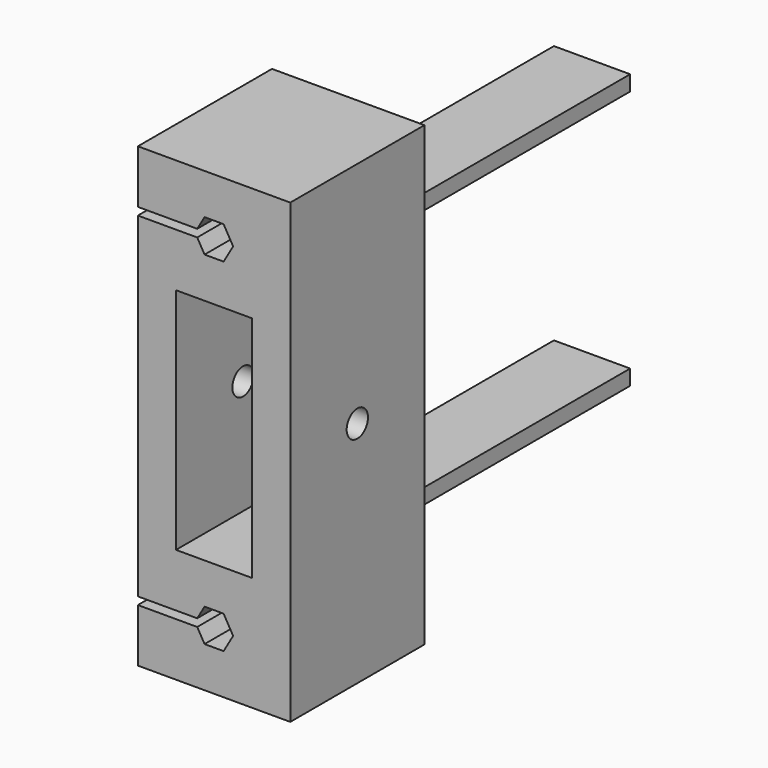
from build123d import *

# Parameters (mm, degrees)
SKETCH055_W     = 20
SKETCH055_H     = 60
SKETCH055_W_2   = 10
SKETCH055_H_2   = 30
PAD031_DEPTH    = 22
SKETCH056_R     = 1.75
POCKET028_DEPTH = 20.001
POCKET029_DEPTH = 2
SKETCH058_W     = 1
SKETCH058_H     = 22
POCKET030_DEPTH = 11
SKETCH059_W     = 10
SKETCH059_H     = 2
PAD032_DEPTH    = 40


with BuildPart() as part:
    # Sketch055 → Pad031 (new body)
    with BuildSketch(Plane.XZ):
        Rectangle(SKETCH055_W, SKETCH055_H)
        Polygon((1.25, 20.3349364905), (2.5, 22.5), (1.25, 24.6650635095), (-1.25, 24.6650635095), (-2.5, 22.5), (-1.25, 20.3349364905), align=None, mode=Mode.SUBTRACT)
        Polygon((2.5, -22.5), (1.25, -20.3349364905), (-1.25, -20.3349364905), (-2.5, -22.5), (-1.25, -24.6650635095), (1.25, -24.6650635095), align=None, mode=Mode.SUBTRACT)
        Rectangle(SKETCH055_W_2, SKETCH055_H_2, mode=Mode.SUBTRACT)
    extrude(amount=PAD031_DEPTH)

    # Sketch056 (on Face2 of Pad031) → Pocket028 (cut, through all)
    with BuildSketch(Plane(origin=(10, 0, 0), x_dir=(0, 0, 1), z_dir=(1, 0, 0))):
        with Locations((0, 11)):
            Circle(SKETCH056_R)
    extrude(amount=-POCKET028_DEPTH, mode=Mode.SUBTRACT)

    # Sketch057 (on Face2 of Pocket028) → Pocket029 (cut)
    with BuildSketch(Plane(origin=(-10, 0, 0), x_dir=(0, 0, -1), z_dir=(-1, 0, 0))):
        Polygon((2.5980762114, 9.5), (2.5980762114, 12.5), (0, 14), (-2.5980762114, 12.5), (-2.5980762114, 9.5), (0, 8), align=None)
    extrude(amount=-POCKET029_DEPTH, mode=Mode.SUBTRACT)

    # Sketch058 (on Face2 of Pocket029) → Pocket030 (cut)
    with BuildSketch(Plane(origin=(-10, 0, 0), x_dir=(0, 0, -1), z_dir=(-1, 0, 0))):
        with Locations((22.5, 11)):
            Rectangle(SKETCH058_W, SKETCH058_H)
        with Locations((-22.5, 11)):
            Rectangle(SKETCH058_W, SKETCH058_H)
    extrude(amount=-POCKET030_DEPTH, mode=Mode.SUBTRACT)

    # Sketch059 (on Face4 of Pocket030) → Pad032 (join)
    with BuildSketch(Plane(origin=(0, 0, 0), x_dir=(1, 0, 0), z_dir=(0, 1, 0))):
        with Locations((0, 17)):
            Rectangle(SKETCH059_W, SKETCH059_H)
        with Locations((0, -17)):
            Rectangle(SKETCH059_W, SKETCH059_H)
    extrude(amount=PAD032_DEPTH)


solid = part.part
